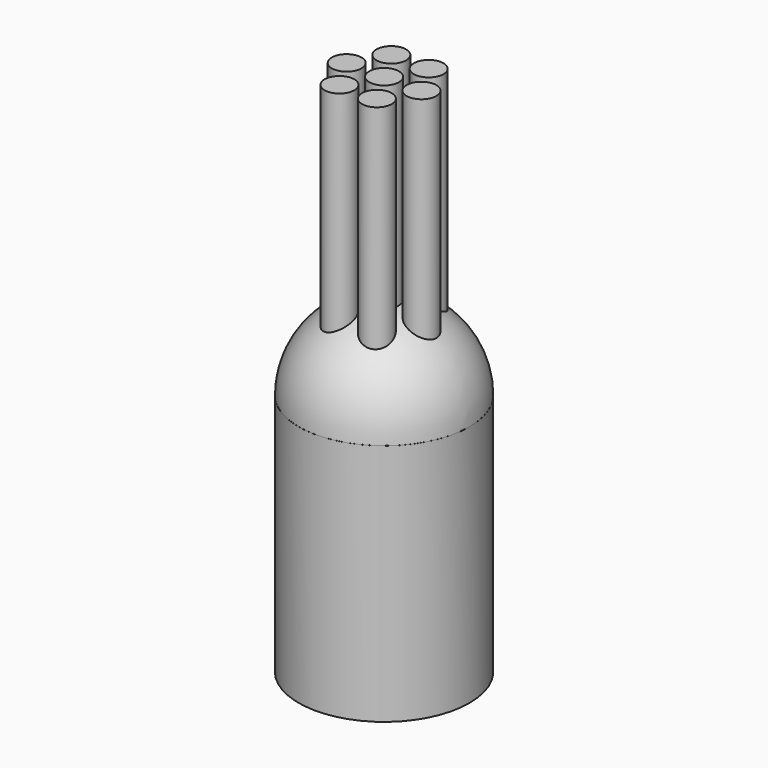
from build123d import *

# Parameters (mm, degrees)
CYLINDER054_R     = 0.79375
CYLINDER054_DEPTH = 28
ARRAY001_COUNT    = 6
CYLINDER056_R     = 0.79375
CYLINDER056_DEPTH = 28
CYLINDER049_R     = 4.564063
CYLINDER049_DEPTH = 13


with BuildPart() as array001:
    # Cylinder054 → Cylinder054 (new body)
    with BuildSketch(Plane(origin=(2, 0, 0), x_dir=(1, 0, 0), z_dir=(0, 0, 1))):
        Circle(CYLINDER054_R)
    extrude(amount=CYLINDER054_DEPTH)

    # Array001: Array001 ×6 about axis
    array001_axis = Axis((0, 0, 0), (0, 0, 1))


with BuildPart() as array001_1:
    add(array001.part)
    for i in range(1, ARRAY001_COUNT):
        add(array001.part.rotate(array001_axis, i * 360 / ARRAY001_COUNT))


with BuildPart() as obj1_holes:
    # Cylinder056 → Cylinder056 (new body)
    with BuildSketch(Plane.XY):
        Circle(CYLINDER056_R)
    extrude(amount=CYLINDER056_DEPTH)

    # Fusion020: union Array001
    add(array001_1.part)


with BuildPart() as obj2:
    # Cylinder049 → Cylinder049 (new body)
    with BuildSketch(Plane.XY):
        Circle(CYLINDER049_R)
    extrude(amount=CYLINDER049_DEPTH)


with BuildPart() as obj1:
    # Sphere → Sphere (revolve)
    with BuildSketch(Plane(origin=(0, 0, 13), x_dir=(1, 0, 0), z_dir=(0, -1, 0))):
        with BuildLine():
            ThreePointArc((0, -4.56), (4.56, 0), (0, 4.56))
            Line((0, 4.56), (0, -4.56))
        make_face()
    revolve(axis=Axis((0, 0, 13), (0, 0, 1)))

    # Fusion024: union obj1_holes, obj2
    add(obj1_holes.part)
    add(obj2.part)


with BuildPart() as obj1_1:
    # Fusion024 placement: moved
    add(obj1.part.moved(Location((53.25, 179.75, 0))))


solid = obj1_1.part
